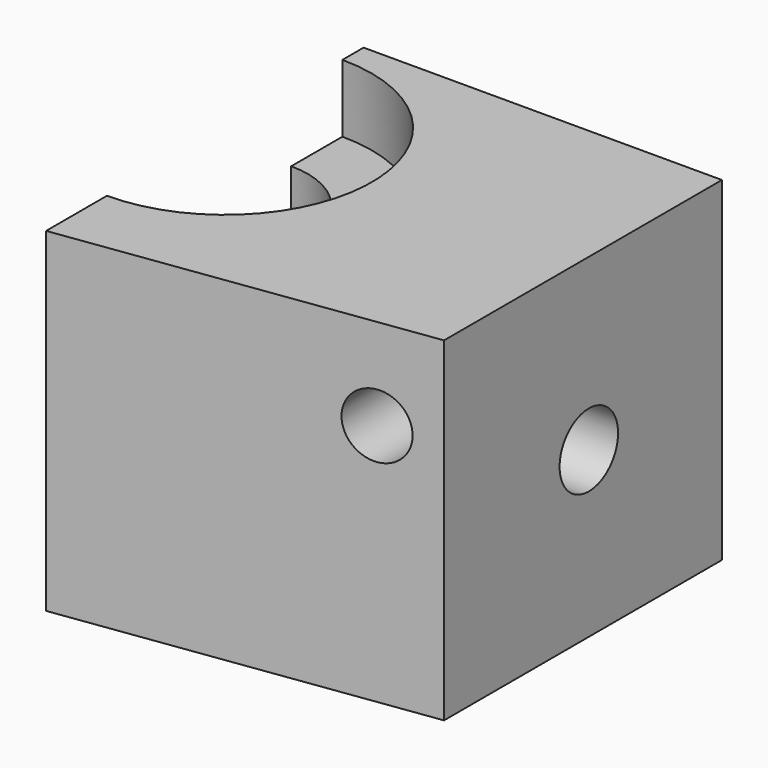
from build123d import *

# Parameters (mm, degrees)
F1_DEPTH       = 3.7
F3_DEPTH       = 5.6
F5_DEPTH       = 3
F7_DEPTH       = 2.3
F9_DEPTH       = 3.7
F11_DEPTH      = 25
F11_DEPTH_BACK = 25
F12_R          = 2
F13_DEPTH      = 7
F14_R          = 1.75
F15_DEPTH      = 25


with BuildPart() as f1:
    # F0 (on Top) → F1 (new body)
    with BuildSketch(Plane.XY):
        with BuildLine():
            Line((19.6, 9.5), (0, 12.21))
            Line((0, 12.21), (0, 8.1))
            ThreePointArc((0, 8.1), (5.7275649276, 5.7275649276), (8.1, 0))
            ThreePointArc((8.1, 0), (5.7275649276, -5.7275649276), (0, -8.1))
            Line((0, -8.1), (0, -12.21))
            Line((0, -12.21), (19.6, -9.5))
            Line((19.6, -9.5), (19.6, 0))
            Line((19.6, 0), (19.6, 9.5))
        make_face()
    extrude(amount=F1_DEPTH)

    # F2 (on face) → F3 (join)
    with BuildSketch(Plane.XY.offset(3.7)):
        with BuildLine():
            ThreePointArc((0, 6.05), (6.05, 0), (0, -6.05))
            Line((0, -6.05), (0, -8.1))
            Line((0, -8.1), (0, -12.21))
            Line((0, -12.21), (19.6, -9.5))
            Line((19.6, -9.5), (19.6, 9.5))
            Line((19.6, 9.5), (0, 12.21))
            Line((0, 12.21), (0, 8.1))
            Line((0, 8.1), (0, 6.05))
        make_face()
    extrude(amount=F3_DEPTH)

    # F4 (on face) → F5 (join)
    with BuildSketch(Plane.XY.offset(9.3)):
        with BuildLine():
            ThreePointArc((0, 8.05), (8.05, 0), (0, -8.05))
            Line((0, -8.05), (0, -12.21))
            Line((0, -12.21), (19.6, -9.5))
            Line((19.6, -9.5), (19.6, 9.5))
            Line((19.6, 9.5), (0, 12.21))
            Line((0, 12.21), (0, 8.05))
        make_face()
    extrude(amount=F5_DEPTH)

    # F6 (on face) → F7 (join)
    with BuildSketch(Plane.XY.offset(12.3)):
        with BuildLine():
            ThreePointArc((0, 4.55), (4.55, 0), (0, -4.55))
            Line((0, -4.55), (0, -12.21))
            Line((0, -12.21), (19.6, -9.5))
            Line((19.6, -9.5), (19.6, 9.5))
            Line((19.6, 9.5), (0, 12.21))
            Line((0, 12.21), (0, 4.55))
        make_face()
    extrude(amount=F7_DEPTH)

    # F8 (on face) → F9 (join)
    with BuildSketch(Plane.XY.offset(14.6)):
        with BuildLine():
            ThreePointArc((0, 8.05), (8.05, 0), (0, -8.05))
            Line((0, -8.05), (0, -12.21))
            Line((0, -12.21), (19.6, -9.5))
            Line((19.6, -9.5), (19.6, 9.5))
            Line((19.6, 9.5), (0, 12.21))
            Line((0, 12.21), (0, 8.05))
        make_face()
    extrude(amount=F9_DEPTH)

    # F10 (on face) → F11 (cut, two sides)
    with BuildSketch(Plane(origin=(0, 0, 0), x_dir=(1, 0, 0), z_dir=(0, 0, -1))) as f11_sk:
        Polygon((0, -12.21), (19.6, -9.5), (0, -9.5), align=None)
    extrude(amount=-F11_DEPTH, mode=Mode.SUBTRACT)
    extrude(f11_sk.sketch, amount=F11_DEPTH_BACK, mode=Mode.SUBTRACT)

    # F12 (on face) → F13 (cut)
    with BuildSketch(Plane.YZ.offset(19.6)):
        with Locations((0.4, 9)):
            Circle(F12_R)
    extrude(amount=-F13_DEPTH, mode=Mode.SUBTRACT)

    # F14 (on face) → F15 (cut)
    with BuildSketch(Plane(origin=(0, 9.5, 0), x_dir=(-1, 0, 0), z_dir=(0, 1, 0))):
        with Locations((-16.3, 13.3)):
            Circle(F14_R)
    extrude(amount=-F15_DEPTH, mode=Mode.SUBTRACT)


solid = f1.part
